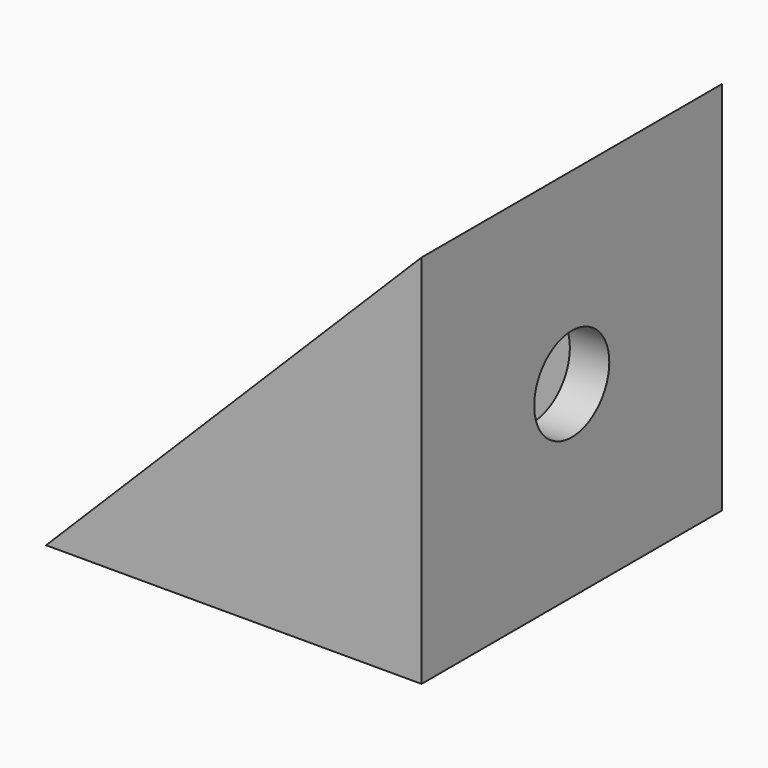
from build123d import *

# Parameters (mm, degrees)
F1_DEPTH = 38.1
F3_DEPTH = 25
F5_R     = 4.7625
F6_DEPTH = 34.1
F8_DEPTH = 34.1
F9_DEPTH = 50


with BuildPart() as f1:
    # F0 (on Top) → F1 (new body)
    with BuildSketch(Plane.XY):
        Polygon((23.88, 22.062646), (-14.22, 22.062646), (-14.22, 3.012646), (-14.22, -16.037354), (23.88, -16.037354), align=None)
        with BuildLine():
            ThreePointArc((9.5925, 3.012646), (4.83, -1.749854), (0.0675, 3.012646))
            ThreePointArc((0.0675, 3.012646), (4.83, 7.775146), (9.5925, 3.012646))
        make_face(mode=Mode.SUBTRACT)
    extrude(amount=F1_DEPTH)

    # F2 (on face) → F3 (cut)
    with BuildSketch(Plane.YZ.offset(23.88)):
        with BuildLine():
            ThreePointArc((-1.749854, 19.05), (3.012646, 14.2875), (7.775146, 19.05))
            ThreePointArc((7.775146, 19.05), (3.012646, 23.8125), (-1.749854, 19.05))
        make_face()
    extrude(amount=-F3_DEPTH, mode=Mode.SUBTRACT)

    # F5 (on face) → F6 (cut)
    with BuildSketch(Plane.XY.offset(38.1)):
        Polygon((19.88, 18.062646), (4.83, 18.062646), (-10.22, 18.062646), (-10.22, 3.012646), (-10.22, -12.037354), (4.83, -12.037354), (19.88, -12.037354), (19.88, 3.012646), align=None)
        with Locations((4.83, 3.012646)):
            Circle(F5_R, mode=Mode.SUBTRACT)
    extrude(amount=-F6_DEPTH, mode=Mode.SUBTRACT)

    # F7 (on face) → F8 (cut)
    with BuildSketch(Plane(origin=(-14.22, 0, 0), x_dir=(0, -1, 0), z_dir=(-1, 0, 0))):
        Polygon((12.037354, 34.1), (-3.012646, 34.1), (-18.062646, 34.1), (-18.062646, 19.05), (-18.062646, 4), (-3.012646, 4), (12.037354, 4), (12.037354, 19.05), align=None)
    extrude(amount=-F8_DEPTH, mode=Mode.SUBTRACT)

    # F4 (on face) → F9 (cut)
    with BuildSketch(Plane.XZ.offset(16.037354)):
        Polygon((-14.22, 0), (23.88, 38.1), (-14.22, 38.1), align=None)
    extrude(amount=-F9_DEPTH, mode=Mode.SUBTRACT)


solid = f1.part
